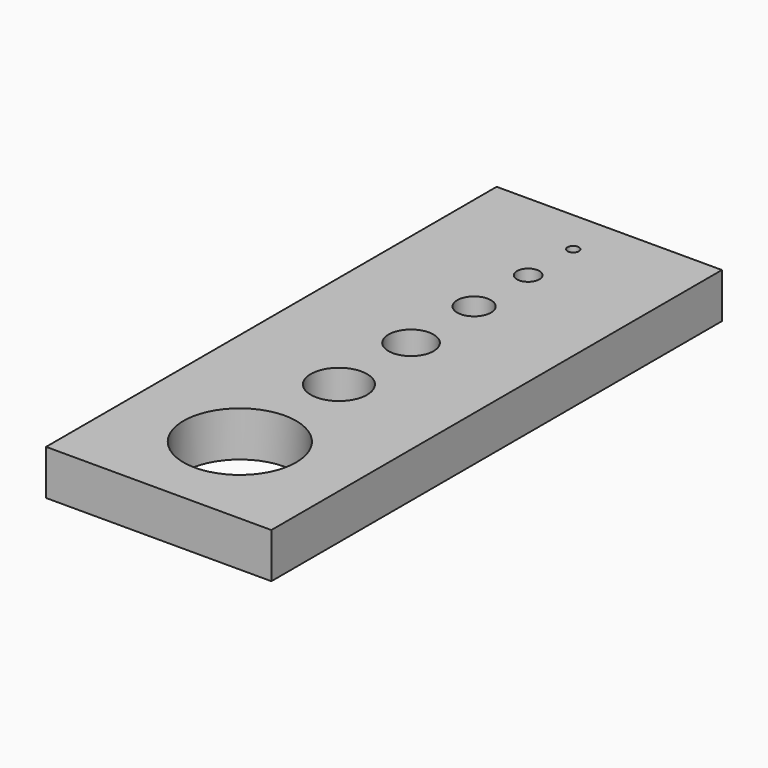
from build123d import *

# Parameters (mm, degrees)
F0_W     = 20
F0_H     = 50
F0_R     = 5
F0_R_2   = 2.5
F0_R_3   = 2
F0_R_4   = 1.5
F0_R_5   = 1
F0_R_6   = 0.5
F1_DEPTH = 4


with BuildPart() as f1:
    # F0 (on Top) → F1 (new body)
    with BuildSketch(Plane.XY):
        with Locations((-10, 25)):
            Rectangle(F0_W, F0_H)
        with Locations((-10, 9)):
            Circle(F0_R, mode=Mode.SUBTRACT)
        with Locations((-10, 20)):
            Circle(F0_R_2, mode=Mode.SUBTRACT)
        with Locations((-10, 28)):
            Circle(F0_R_3, mode=Mode.SUBTRACT)
        with Locations((-10, 35)):
            Circle(F0_R_4, mode=Mode.SUBTRACT)
        with Locations((-10, 41)):
            Circle(F0_R_5, mode=Mode.SUBTRACT)
        with Locations((-10, 46)):
            Circle(F0_R_6, mode=Mode.SUBTRACT)
    extrude(amount=F1_DEPTH)


solid = f1.part
